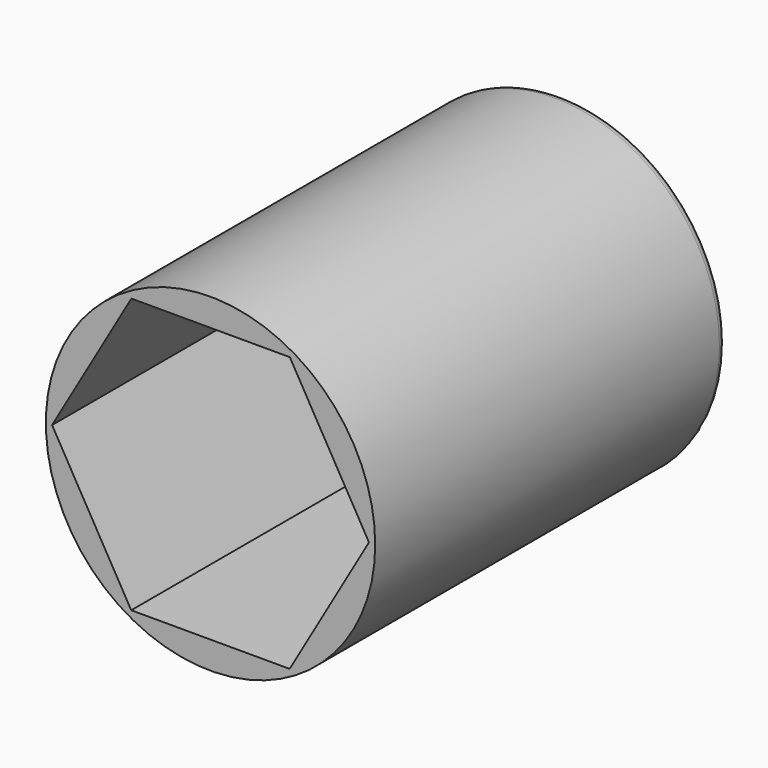
from build123d import *

# Parameters (mm, degrees)
F0_R     = 9.525
F1_DEPTH = 25.4
F2_W     = 9.525
F2_H     = 9.525
F3_DEPTH = 25.401
F5_DEPTH = 19.05
F6_R     = 0.508


with BuildPart() as f1:
    # F0 (on Front) → F1 (new body)
    with BuildSketch(Plane.XZ):
        Circle(F0_R)
    extrude(amount=F1_DEPTH)

    # F2 (on face) → F3 (cut, through all)
    with BuildSketch(Plane.XZ.offset(25.4)):
        Rectangle(F2_W, F2_H)
    extrude(amount=-F3_DEPTH, mode=Mode.SUBTRACT)

    # F4 (on face) → F5 (cut)
    with BuildSketch(Plane.XZ.offset(25.4)):
        Polygon((4.577502, -7.940509), (9.165434, -0.006022), (4.587932, 7.934487), (-4.577502, 7.940509), (-9.165434, 0.006022), (-4.587932, -7.934487), align=None)
    extrude(amount=-F5_DEPTH, mode=Mode.SUBTRACT)

    # F6
    f6_edges = [f1.edges().sort_by_distance(p)[0] for p in [
        (-9.525, 0, 0),
    ]]
    fillet(f6_edges, radius=F6_R)


solid = f1.part
